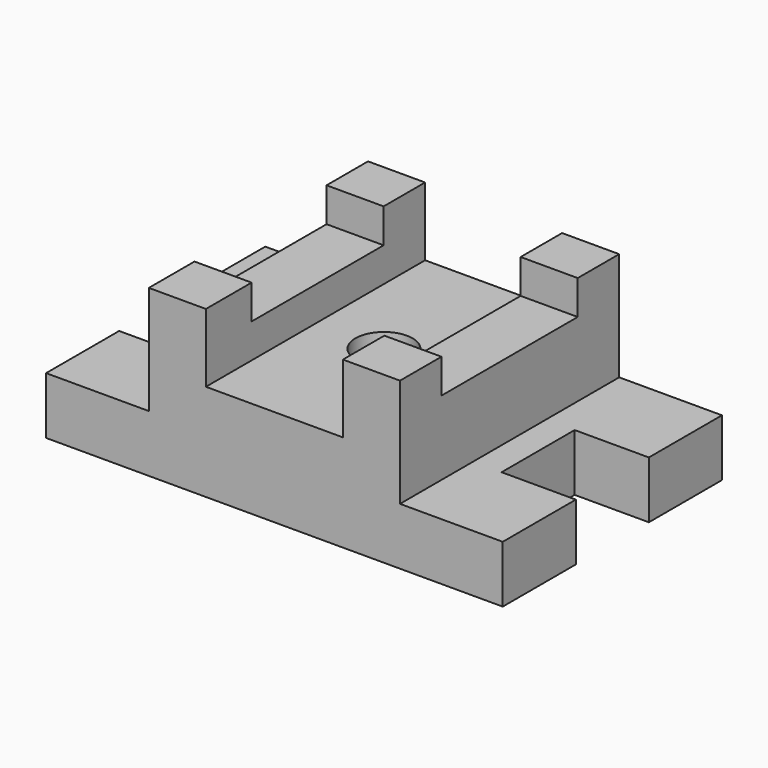
from build123d import *

# Parameters (mm, degrees)
F0_W     = 31.75
F0_H     = 31.75
F0_R     = 15.875
F0_H_2   = 28.8293883204
F1_DEPTH = 31.75
F0_H_3   = 91.8206116796
F0_H_4   = 94.7412233591
F2_DEPTH = 73.025
F3_DEPTH = 92.075
F4_DEPTH = 22.225
F5_SCALE = 0.5


with BuildPart() as f1:
    # F0 (on Top) → F1 (new body)
    with BuildSketch(Plane.XY):
        Polygon((-114.9314489663, -5.3708956957), (-114.9314489663, -56.1708956957), (-57.7814489663, -56.1708956957), (-57.7814489663, -24.4208956957), (-57.7814489663, 67.3997159839), (-57.7814489663, 96.2291043043), (-114.9314489663, 96.2291043043), (-114.9314489663, 45.4291043043), (-73.6564489663, 45.4291043043), (-73.6564489663, -5.3708956957), align=None)
        with Locations((-41.9064489663, -40.2958956957)):
            Rectangle(F0_W, F0_H)
        Polygon((-26.0314489663, -24.4208956957), (-26.0314489663, -56.1708956957), (50.1685510337, -56.1708956957), (50.1685510337, -27.3415073752), (50.1685510337, 67.3997159839), (50.1685510337, 96.2291043043), (-26.0314489663, 96.2291043043), (-26.0314489663, 67.3997159839), align=None)
        with Locations((12.0685510337, 20.0291043043)):
            Circle(F0_R, mode=Mode.SUBTRACT)
        with Locations((66.0435510337, -41.7562015355)):
            Rectangle(F0_W, F0_H_2)
        with Locations((-41.9064489663, 81.8144101441)):
            Rectangle(F0_W, F0_H_2)
        Polygon((81.9185510337, -27.3415073752), (81.9185510337, -56.1708956957), (139.0685510337, -56.1708956957), (139.0685510337, -5.3708956957), (97.7935510337, -5.3708956957), (97.7935510337, 45.4291043043), (139.0685510337, 45.4291043043), (139.0685510337, 96.2291043043), (81.9185510337, 96.2291043043), (81.9185510337, 67.3997159839), align=None)
        with Locations((66.0435510337, 81.8144101441)):
            Rectangle(F0_W, F0_H_2)
    extrude(amount=F1_DEPTH)

    # F0 (on Top) → F2 (join)
    with BuildSketch(Plane.XY):
        with Locations((-41.9064489663, 21.4894101441)):
            Rectangle(F0_W, F0_H_3)
        with Locations((66.0435510337, 20.0291043043)):
            Rectangle(F0_W, F0_H_4)
    extrude(amount=F2_DEPTH)

    # F0 (on Top) → F3 (join)
    with BuildSketch(Plane.XY):
        with Locations((-41.9064489663, 81.8144101441)):
            Rectangle(F0_W, F0_H_2)
        with Locations((-41.9064489663, -40.2958956957)):
            Rectangle(F0_W, F0_H)
        with Locations((66.0435510337, -41.7562015355)):
            Rectangle(F0_W, F0_H_2)
        with Locations((66.0435510337, 81.8144101441)):
            Rectangle(F0_W, F0_H_2)
    extrude(amount=F3_DEPTH)

    # F4 (add): a face of the model
    f4_faces = [f1.faces().sort_by_distance(p)[0] for p in [
        (-24.3275651674, 20.0291043043, 31.75),
    ]]
    extrude(f4_faces, amount=F4_DEPTH)


with BuildPart() as f1_1:
    # F5: moved
    add(f1.part.scale(F5_SCALE).moved(Location((25.0842755169, -28.0854478478, 46.0375))))


solid = f1_1.part
